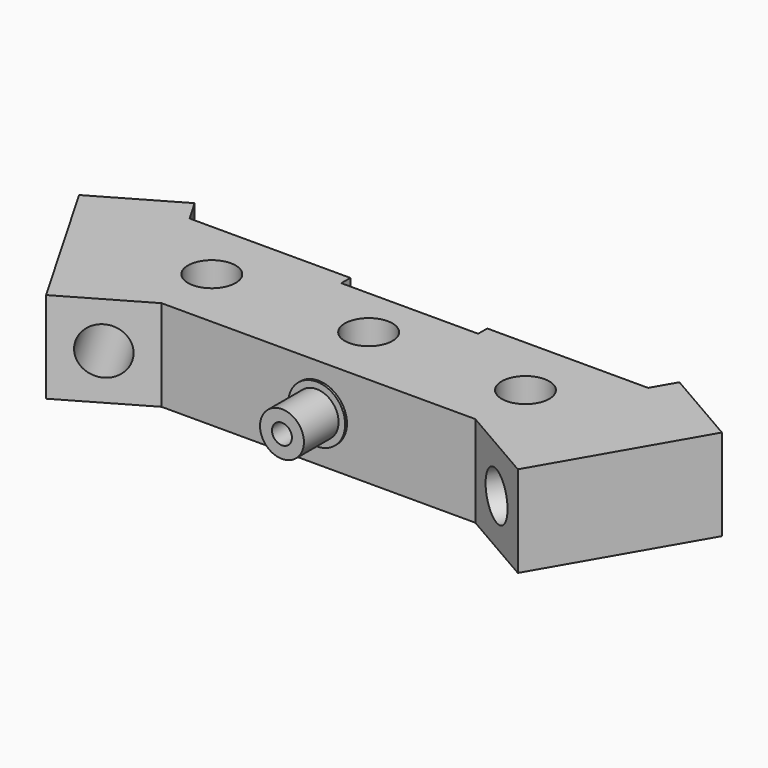
from build123d import *

# Parameters (mm, degrees)
F0_R      = 4.175
F1_DEPTH  = 16
F2_R      = 4.125
F3_DEPTH  = 40
F4_R      = 4.125
F5_DEPTH  = 40
F6_R      = 3.85
F6_R_2    = 1.75
F7_DEPTH  = 8
F8_DEPTH  = 7
F6_R_3    = 5
F9_DEPTH  = 0.4
F10_R     = 1
F11_DEPTH = 10
F12_W     = 24
F12_H     = 16
F12_R     = 1
F13_DEPTH = 2


with BuildPart() as f1:
    # F0 (on Top) → F1 (new body)
    with BuildSketch(Plane.XY):
        Polygon((-42.5, 14.9807621135), (-56.3564064606, 6.9807621135), (-41.3564064606, -19), (-27.5, -11), (27.5, -11), (41.3564064606, -19), (56.3564064606, 6.9807621135), (42.5, 14.9807621135), (40.2017059222, 11), (0, 11), (-40.2017059222, 11), align=None)
        with Locations((-27.5, 0)):
            Circle(F0_R, mode=Mode.SUBTRACT)
        Circle(F0_R, mode=Mode.SUBTRACT)
        with Locations((27.5, 0)):
            Circle(F0_R, mode=Mode.SUBTRACT)
    extrude(amount=F1_DEPTH)

    # F2 (on face) → F3 (cut)
    with BuildSketch(Plane(origin=(17.1118602792, 29.6386114156, 0), x_dir=(-0.8660254038, 0.5, 0), z_dir=(0.5, 0.8660254038, 0))):
        with Locations((-37.3156986041, 8)):
            Circle(F2_R)
    extrude(amount=-F3_DEPTH, mode=Mode.SUBTRACT)

    # F4 (on face) → F5 (cut)
    with BuildSketch(Plane(origin=(-17.1118602792, 29.6386114156, 0), x_dir=(-0.8660254038, -0.5, 0), z_dir=(-0.5, 0.8660254038, 0))):
        with Locations((37.3156986041, 8)):
            Circle(F4_R)
    extrude(amount=-F5_DEPTH, mode=Mode.SUBTRACT)

    # F6 (on face) → F7 (join)
    with BuildSketch(Plane.XZ.offset(11)):
        with Locations((0, 8)):
            Circle(F6_R)
        with Locations((0, 8)):
            Circle(F6_R_2, mode=Mode.SUBTRACT)
    extrude(amount=F7_DEPTH)

    # F8 (cut): a face of the model
    f8_faces = [f1.faces().sort_by_distance(p)[0] for p in [
        (0, -11, 8),
    ]]
    extrude(f8_faces, amount=-F8_DEPTH, mode=Mode.SUBTRACT)

    # F6 (on face) → F9 (join)
    with BuildSketch(Plane.XZ.offset(11)):
        with Locations((0, 8)):
            Circle(F6_R_3)
        with Locations((0, 8)):
            Circle(F6_R, mode=Mode.SUBTRACT)
    extrude(amount=F9_DEPTH)

    # F10 (on face) → F11 (cut)
    with BuildSketch(Plane(origin=(0, 11, 0), x_dir=(-1, 0, 0), z_dir=(0, 1, 0))):
        with Locations((-4.75, 7.5)):
            Circle(F10_R)
        with Locations((4.75, 7.5)):
            Circle(F10_R)
    extrude(amount=-F11_DEPTH, mode=Mode.SUBTRACT)

    # F12 (on face) → F13 (cut)
    with BuildSketch(Plane(origin=(0, 11, 0), x_dir=(-1, 0, 0), z_dir=(0, 1, 0))):
        with Locations((0, 8)):
            Rectangle(F12_W, F12_H)
        with Locations((-4.75, 7.5)):
            Circle(F12_R, mode=Mode.SUBTRACT)
        with Locations((4.75, 7.5)):
            Circle(F12_R, mode=Mode.SUBTRACT)
    extrude(amount=-F13_DEPTH, mode=Mode.SUBTRACT)


solid = f1.part
